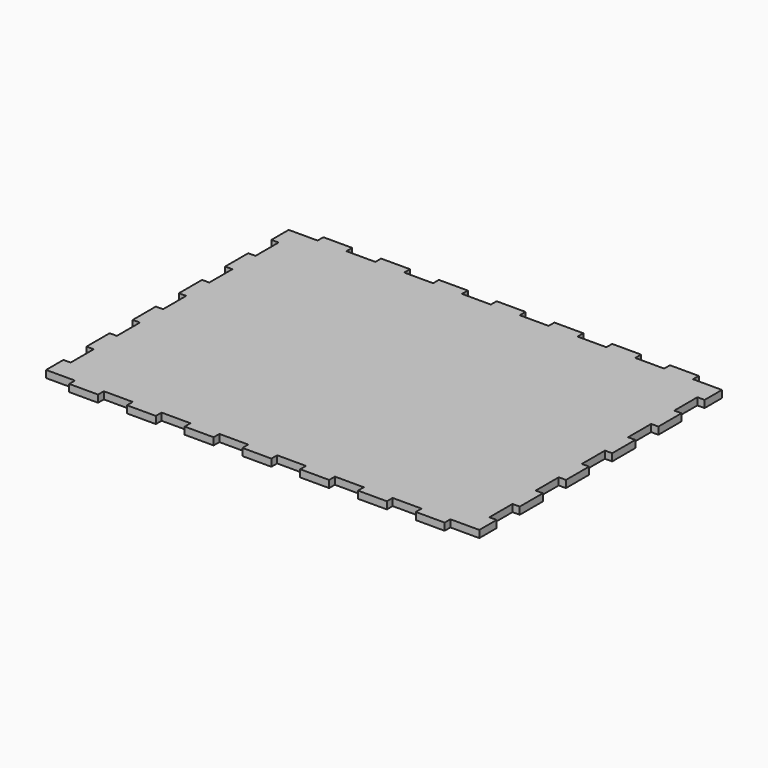
from build123d import *

# Parameters (mm, degrees)
F1_DEPTH = 2.5


with BuildPart() as f1:
    # F0 (on Top) → F1 (new body)
    with BuildSketch(Plane.XY):
        Polygon((55, -55), (65, -55), (65, -52.5), (75, -52.5), (75, -45), (72.5, -45), (72.5, -35), (75, -35), (75, -25), (72.5, -25), (72.5, -15), (75, -15), (75, -5), (72.5, -5), (72.5, 5), (75, 5), (75, 15), (72.5, 15), (72.5, 25), (75, 25), (75, 35), (72.5, 35), (72.5, 45), (75, 45), (75, 52.5), (65, 52.5), (65, 55), (55, 55), (55, 52.5), (45, 52.5), (45, 55), (35, 55), (35, 52.5), (25, 52.5), (25, 55), (15, 55), (15, 52.5), (5, 52.5), (5, 55), (-5, 55), (-5, 52.5), (-15, 52.5), (-15, 55), (-25, 55), (-25, 52.5), (-35, 52.5), (-35, 55), (-45, 55), (-45, 52.5), (-55, 52.5), (-55, 55), (-65, 55), (-65, 52.5), (-75, 52.5), (-75, 45), (-72.5, 45), (-72.5, 35), (-75, 35), (-75, 25), (-72.5, 25), (-72.5, 15), (-75, 15), (-75, 5), (-72.5, 5), (-72.5, -5), (-75, -5), (-75, -15), (-72.5, -15), (-72.5, -25), (-75, -25), (-75, -35), (-72.5, -35), (-72.5, -45), (-75, -45), (-75, -52.5), (-65, -52.5), (-65, -55), (-55, -55), (-55, -52.5), (-45, -52.5), (-45, -55), (-35, -55), (-35, -52.5), (-25, -52.5), (-25, -55), (-15, -55), (-15, -52.5), (-5, -52.5), (-5, -55), (5, -55), (5, -52.5), (15, -52.5), (15, -55), (25, -55), (25, -52.5), (35, -52.5), (35, -55), (45, -55), (45, -52.5), (55, -52.5), align=None)
    extrude(amount=F1_DEPTH)


solid = f1.part
